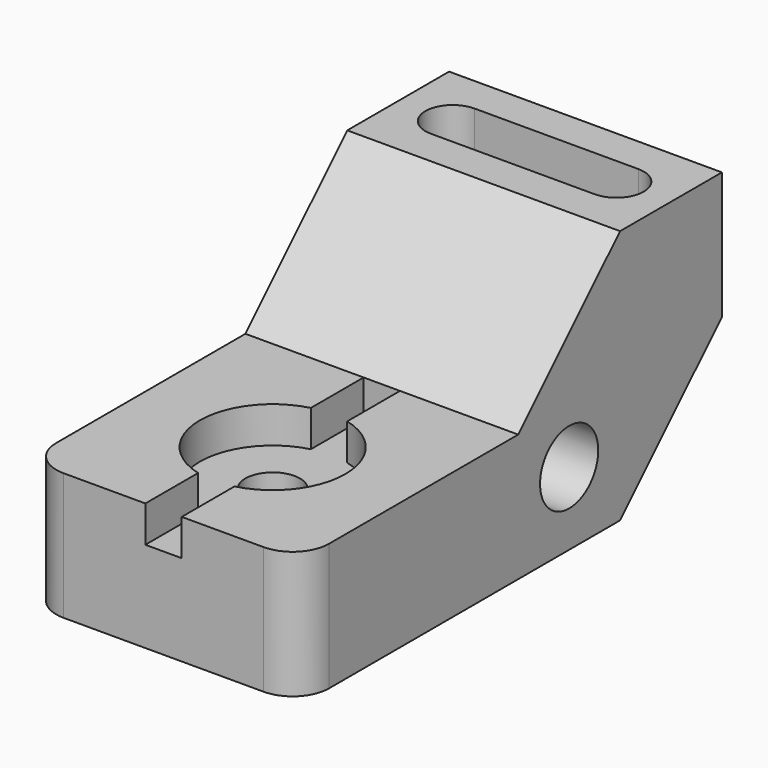
from build123d import *

# Parameters (mm, degrees)
F1_DEPTH       = 38.1
F2_R           = 10.16
F3_R           = 10.16
F4_DEPTH       = 76.201
F7_D           = 15.24
F7_CBORE_D     = 40.64
F7_CBORE_DEPTH = 10.16
F8_W           = 10.16
F8_H           = 10.16
F9_DEPTH       = 76.2
F10_DEPTH      = 27.94


with BuildPart() as f1:
    # F0 (on Right) → F1 (new body, symmetric)
    with BuildSketch(Plane.YZ):
        Polygon((0, 35.56), (0, 0), (111.76, 0), (147.32, 35.56), (147.32, 71.12), (111.76, 71.12), (76.2, 35.56), align=None)
    extrude(amount=F1_DEPTH, both=True)

    # F2
    f2_edges = [f1.edges().sort_by_distance(p)[0] for p in [
        (38.1, 0, 17.78),
        (-38.1, 0, 17.78),
    ]]
    fillet(f2_edges, radius=F2_R)

    # F3 (on face) → F4 (cut, through all)
    with BuildSketch(Plane.YZ.offset(38.1)):
        with Locations((93.98, 20.32)):
            Circle(F3_R)
    extrude(amount=-F4_DEPTH, mode=Mode.SUBTRACT)

    # F7 (through all)
    with Locations(Plane.XY.offset(35.56)):
        with Locations((0, 38.1)):
            CounterBoreHole(F7_D / 2, F7_CBORE_D / 2, F7_CBORE_DEPTH)

    # F8 (on face) → F9 (cut)
    with BuildSketch(Plane.XZ):
        with Locations((0, 30.48)):
            Rectangle(F8_W, F8_H)
    extrude(amount=-F9_DEPTH, mode=Mode.SUBTRACT)

    # F5 (on face) → F10 (cut)
    with BuildSketch(Plane.XY.offset(71.12)):
        with BuildLine():
            ThreePointArc((-22.86, 137.16), (-30.48, 129.54), (-22.86, 121.92))
            Line((-22.86, 121.92), (22.86, 121.92))
            ThreePointArc((22.86, 121.92), (30.48, 129.54), (22.86, 137.16))
            Line((22.86, 137.16), (-22.86, 137.16))
        make_face()
    extrude(amount=-F10_DEPTH, mode=Mode.SUBTRACT)


solid = f1.part
